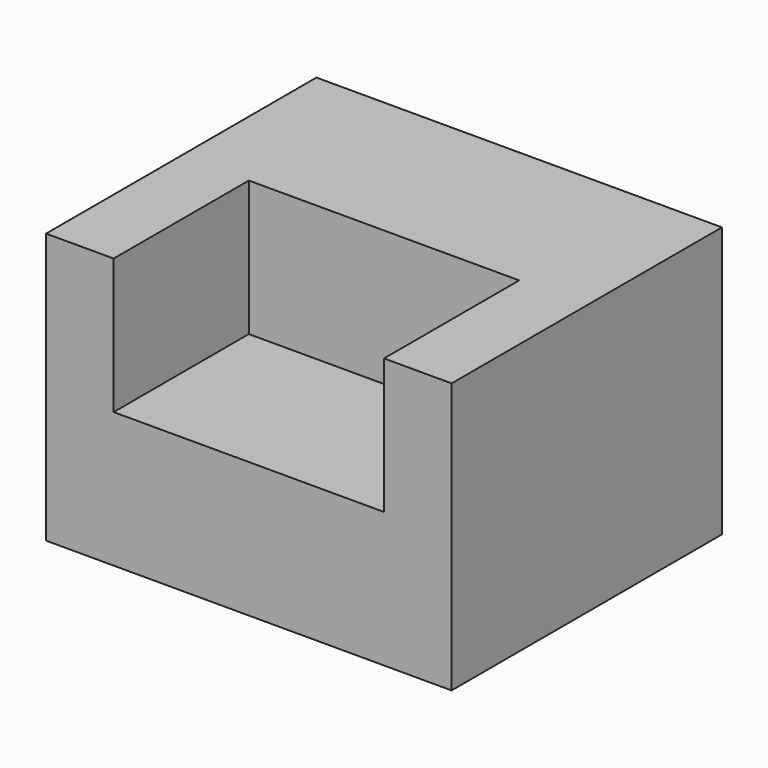
from build123d import *

# Parameters (mm, degrees)
F1_DEPTH = 127
F2_W     = 101.6
F2_H     = 63.5
F3_DEPTH = 50.8


with BuildPart() as f1:
    # F0 (on Front) → F1 (new body)
    with BuildSketch(Plane.XZ):
        Polygon((-25.4, 95.645057), (-25.4, -5.954943), (127, -5.954943), (127, 95.645057), (101.6, 95.645057), (101.6, 44.845057), (0, 44.845057), (0, 95.645057), align=None)
    extrude(amount=F1_DEPTH)

    # F2 (on face) → F3 (join)
    with BuildSketch(Plane.XY.offset(44.845057)):
        with Locations((50.8, -31.75)):
            Rectangle(F2_W, F2_H)
    extrude(amount=F3_DEPTH)


solid = f1.part
